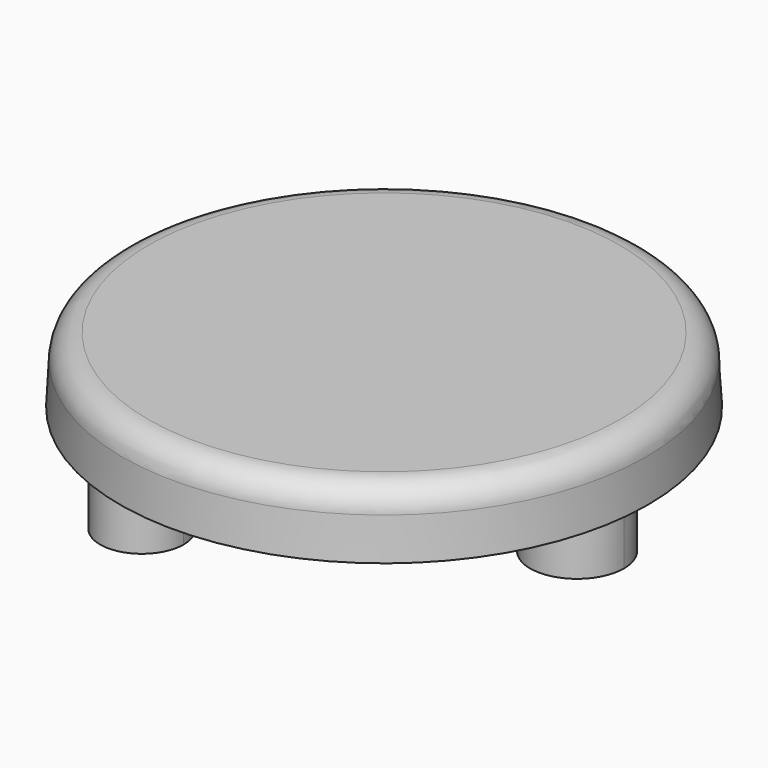
from build123d import *

# Parameters (mm, degrees)
F0_R     = 50.8204008134
F1_DEPTH = 12.7
F1_TAPER = 3
F3_DEPTH = 25
F4_R     = 5


with BuildPart() as f1:
    # F0 (on Top) → F1 (new body)
    with BuildSketch(Plane.XY):
        Circle(F0_R)
    extrude(amount=F1_DEPTH, taper=F1_TAPER)

    # F2 (on face) → F3 (join)
    with BuildSketch(Plane.XY.offset(12.7)):
        with BuildLine():
            ThreePointArc((-10.3685208828, -35.279545933), (-11.5330508003, -31.1117961239), (-14.6893061002, -28.1513365513))
            ThreePointArc((-14.6893061002, -28.1513365513), (-25.2845296612, -39.4472957421), (-10.3685208828, -35.279545933))
        make_face()
        with BuildLine():
            ThreePointArc((46.1865502421, 0), (37.1504314244, 9.0361188178), (28.1143126066, 0))
            ThreePointArc((28.1143126066, 0), (37.1504314244, -9.0361188178), (46.1865502421, 0))
        make_face()
        with BuildLine():
            ThreePointArc((-22.1275595237, 27.55375579), (-33.8414364746, 29.8480310368), (-23.8585792296, 23.3042421225))
            ThreePointArc((-23.8585792296, 23.3042421225), (-22.5769153544, 25.2594805432), (-22.1275595237, 27.55375579))
        make_face()
    extrude(amount=-F3_DEPTH)

    # F4
    f4_edges = [f1.edges().sort_by_distance(p)[0] for p in [
        (-50.154822, 0, 12.7),
    ]]
    fillet(f4_edges, radius=F4_R)


solid = f1.part
